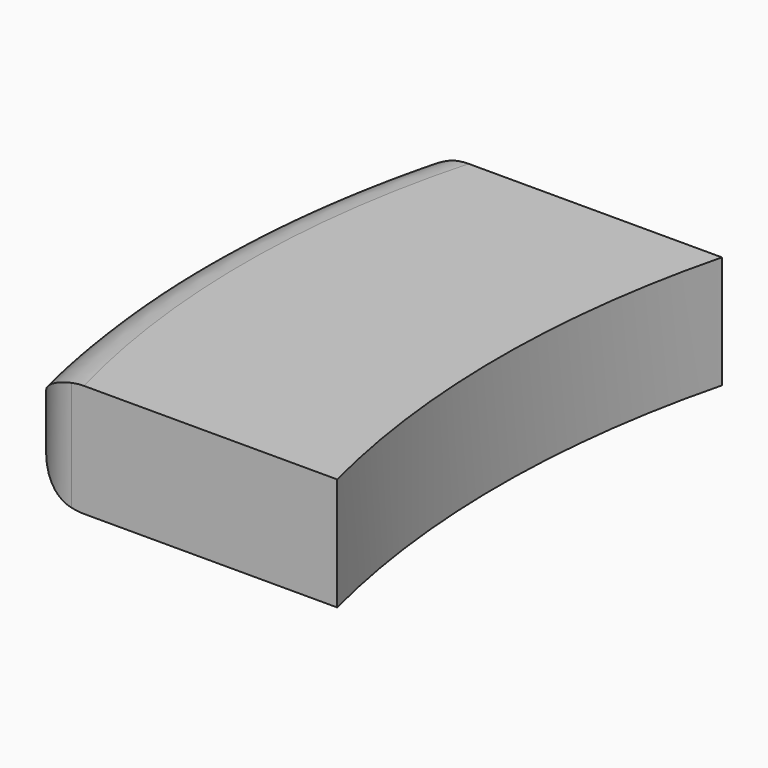
from build123d import *

# Parameters (mm, degrees)
F1_DEPTH = 190.5
F2_R     = 88.9


with BuildPart() as f1:
    # F0 (on Top) → F1 (new body)
    with BuildSketch(Plane.XY):
        with BuildLine():
            Line((0, -406.4), (0, 0))
            Line((0, 0), (0, 406.4))
            ThreePointArc((0, 406.4), (-50.8, 0), (0, -406.4))
        make_face()
        with BuildLine():
            Line((0, 406.4), (0, 0))
            Line((0, 0), (0, -406.4))
            Line((0, -406.4), (519.99896, -406.4))
            ThreePointArc((519.99896, -406.4), (469.19388, -0.000635), (519.9888, 406.4))
            Line((519.9888, 406.4), (0, 406.4))
        make_face()
    extrude(amount=F1_DEPTH)

    # F2
    f2_edges = [f1.edges().sort_by_distance(p)[0] for p in [
        (0, 406.4, 95.25),
        (0, -406.4, 95.25),
        (-50.8, 0, 0),
        (-50.8, 0, 190.5),
    ]]
    fillet(f2_edges, radius=F2_R)


solid = f1.part
